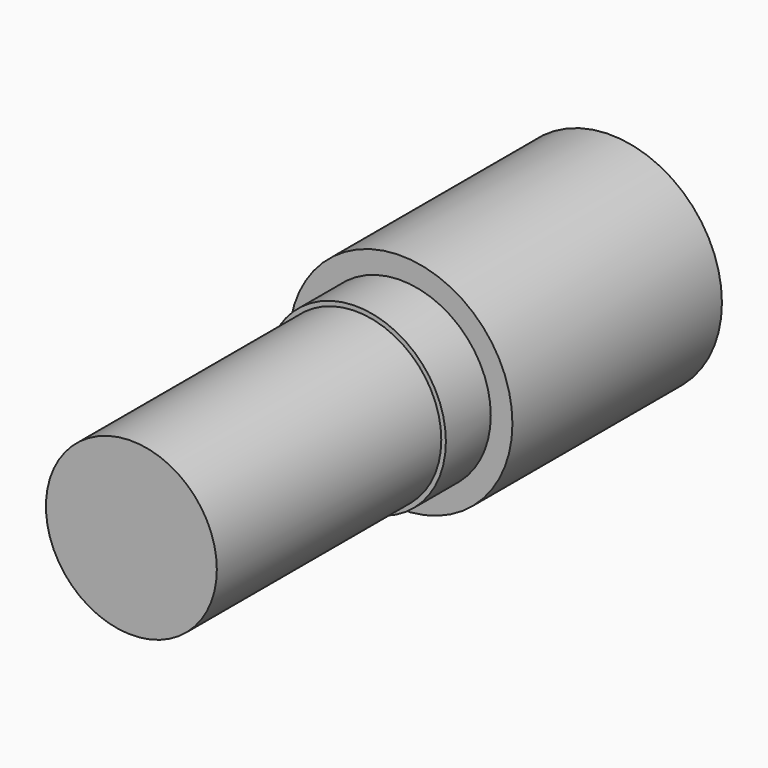
from build123d import *

# Parameters (mm, degrees)
F0_R     = 75.838692
F1_DEPTH = 177.8
F2_R     = 61.132843
F4_DEPTH = 215.9
F3_R     = 17.420923
F5_DEPTH = 215.9
F6_R     = 67.546104
F7_DEPTH = 101.6
F8_R     = 58.022008
F9_DEPTH = 406.4


with BuildPart() as f1:
    # F0 (on Front) → F1 (new body)
    with BuildSketch(Plane.XZ):
        Circle(F0_R)
    extrude(amount=F1_DEPTH)

    # F2 (on Front) → F4 (join)
    with BuildSketch(Plane.XZ):
        Circle(F2_R)
    extrude(amount=F4_DEPTH)

    # F3 (on Front) → F5 (cut)
    with BuildSketch(Plane.XZ):
        Circle(F3_R)
    extrude(amount=F5_DEPTH, mode=Mode.SUBTRACT)

    # F6 (on Front) → F7 (cut)
    with BuildSketch(Plane.XZ):
        Circle(F6_R)
    extrude(amount=F7_DEPTH, mode=Mode.SUBTRACT)

    # F8 (on Front) → F9 (join)
    with BuildSketch(Plane.XZ):
        Circle(F8_R)
    extrude(amount=F9_DEPTH)


solid = f1.part
